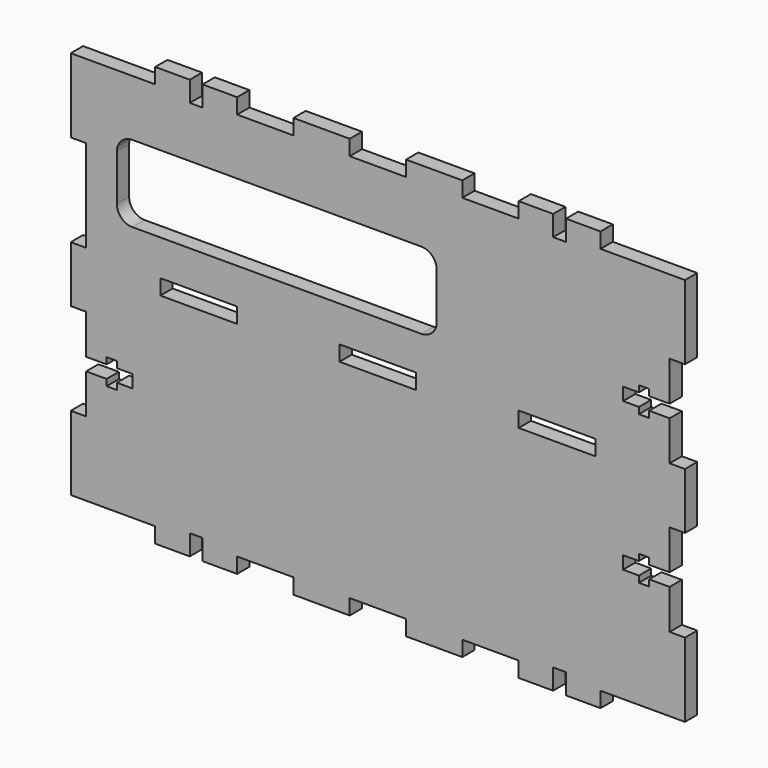
from build123d import *

# Parameters (mm, degrees)
SKETCH009_W                   = 120
SKETCH009_H                   = 82
PAD002_DEPTH                  = 3
SKETCH010_W                   = 16.5
SKETCH010_H                   = 3
SKETCH010_W_2                 = 11
SKETCH010_W_3                 = 3
SKETCH010_H_2                 = 18
POCKET006_DEPTH               = 293.744874
SKETCH010_MIRRORED010_2_W     = 16.5
SKETCH010_MIRRORED010_2_H     = 3
SKETCH010_MIRRORED010_2_W_2   = 11
SKETCH010_MIRRORED010_2_W_3   = 3
SKETCH010_MIRRORED010_2_H_2   = 18
POCKET006_MIRRORED010_2_DEPTH = 293.744874
SKETCH011_W                   = 15
SKETCH011_H                   = 3
POCKET007_DEPTH               = 3.001
POCKET008_DEPTH               = 3.001
SKETCH013_W                   = 2.5
SKETCH013_H                   = 4
POCKET009_DEPTH               = 3.001


with BuildPart() as part:
    # Sketch009 → Pad002 (new body)
    with BuildSketch(Plane.XZ):
        Rectangle(SKETCH009_W, SKETCH009_H)
    extrude(amount=PAD002_DEPTH)

    # Sketch010 → Pocket006 (cut, through all)
    with BuildSketch(Plane.XZ):
        with Locations((-51.75, 39.5)):
            Rectangle(SKETCH010_W, SKETCH010_H)
        with Locations((-22, 39.5)):
            Rectangle(SKETCH010_W_2, SKETCH010_H)
        with Locations((0, 39.5)):
            Rectangle(SKETCH010_W_2, SKETCH010_H)
        with Locations((-58.5, 14.5)):
            Rectangle(SKETCH010_W_3, SKETCH010_H_2)
    pocket006 = extrude(amount=POCKET006_DEPTH, mode=Mode.SUBTRACT)

    # Sketch010 Mirrored010 2 → Pocket006 Mirrored010 2 (cut, through all)
    with BuildSketch(Plane(origin=(0, 0, 0), x_dir=(-1, 0, 0), z_dir=(0, 1, 0))):
        with Locations((-51.75, 39.5)):
            Rectangle(SKETCH010_MIRRORED010_2_W, SKETCH010_MIRRORED010_2_H)
        with Locations((-22, 39.5)):
            Rectangle(SKETCH010_MIRRORED010_2_W_2, SKETCH010_MIRRORED010_2_H)
        with Locations((0, 39.5)):
            Rectangle(SKETCH010_MIRRORED010_2_W_2, SKETCH010_MIRRORED010_2_H)
        with Locations((-58.5, 14.5)):
            Rectangle(SKETCH010_MIRRORED010_2_W_3, SKETCH010_MIRRORED010_2_H_2)
    pocket006_mirrored010_2 = extrude(amount=-POCKET006_MIRRORED010_2_DEPTH, mode=Mode.SUBTRACT)

    # Mirrored011: Pocket006, Pocket006 Mirrored010 2 across Sketch010 H_Axis
    add(pocket006.mirror(Plane(origin=(0, 0, 0), x_dir=(0, -1, 0), z_dir=(0, 0, 1))), mode=Mode.SUBTRACT)
    add(pocket006_mirrored010_2.mirror(Plane(origin=(0, 0, 0), x_dir=(0, -1, 0), z_dir=(0, 0, 1))), mode=Mode.SUBTRACT)

    # Sketch011 → Pocket007 (cut, through all)
    with BuildSketch(Plane.XZ):
        with Locations((35, 3.5)):
            Rectangle(SKETCH011_W, SKETCH011_H)
        with Locations((0, 3.5)):
            Rectangle(SKETCH011_W, SKETCH011_H)
        with Locations((-35, 3.5)):
            Rectangle(SKETCH011_W, SKETCH011_H)
    extrude(amount=POCKET007_DEPTH, mode=Mode.SUBTRACT)

    # Sketch012 → Pocket008 (cut, through all)
    with BuildSketch(Plane.XZ):
        with BuildLine():
            Line((-48, 27), (8.5, 27))
            ThreePointArc((11.5, 24), (10.62132, 26.12132), (8.5, 27))
            Line((11.5, 24), (11.5, 15))
            ThreePointArc((8.5, 12), (10.62132, 12.87868), (11.5, 15))
            Line((8.5, 12), (-48, 12))
            ThreePointArc((-51, 15), (-50.12132, 12.87868), (-48, 12))
            Line((-51, 15), (-51, 24))
            ThreePointArc((-48, 27), (-50.12132, 26.12132), (-51, 24))
        make_face()
    extrude(amount=POCKET008_DEPTH, mode=Mode.SUBTRACT)

    # Sketch013 → Pocket009 (cut, through all)
    with BuildSketch(Plane.XZ):
        Polygon((60, 15.75), (53, 15.75), (53, 17), (51, 17), (51, 15.75), (47.9, 15.75), (47.9, 13.25), (51, 13.25), (51, 12), (53, 12), (53, 13.25), (60, 13.25), align=None)
        with Locations((35.5, 39)):
            Rectangle(SKETCH013_W, SKETCH013_H)
        with Locations((-35.5, 39)):
            Rectangle(SKETCH013_W, SKETCH013_H)
        with Locations((35.5, -39)):
            Rectangle(SKETCH013_W, SKETCH013_H)
        with Locations((-35.5, -39)):
            Rectangle(SKETCH013_W, SKETCH013_H)
        Polygon((60, -15.75), (53, -15.75), (53, -17), (51, -17), (51, -15.75), (47.9, -15.75), (47.9, -13.25), (51, -13.25), (51, -12), (53, -12), (53, -13.25), (60, -13.25), align=None)
        Polygon((-60, -15.75), (-53, -15.75), (-53, -17), (-51, -17), (-51, -15.75), (-47.9, -15.75), (-47.9, -13.25), (-51, -13.25), (-51, -12), (-53, -12), (-53, -13.25), (-60, -13.25), align=None)
    extrude(amount=POCKET009_DEPTH, mode=Mode.SUBTRACT)


with BuildPart() as part_1:
    # Body003 placement: moved
    add(part.part.moved(Location((0, -44.5, 0))))


solid = part_1.part
